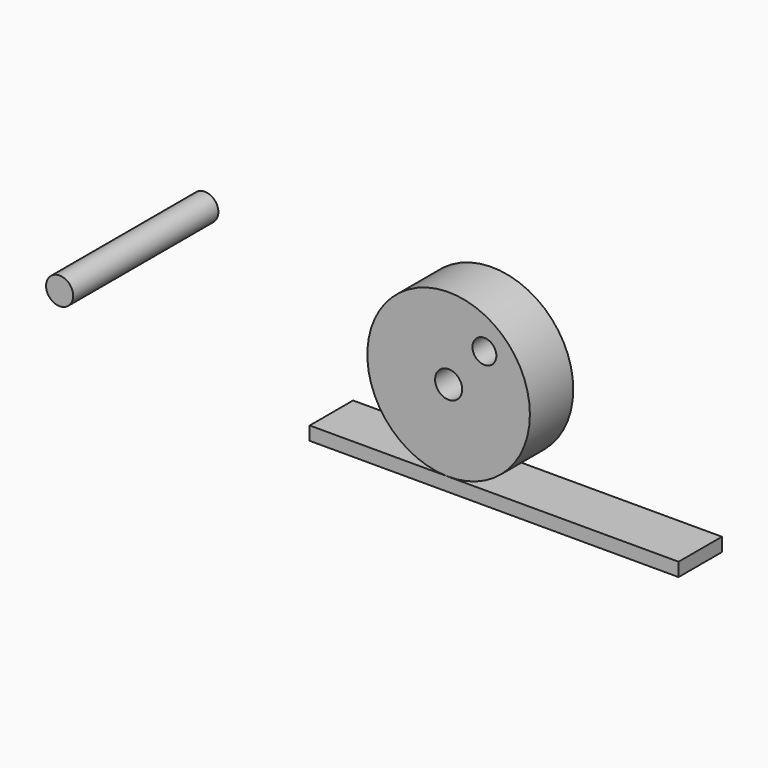
from build123d import *

# Parameters (mm, degrees)
F0_R     = 38.1
F0_R_2   = 6.35
F1_DEPTH = 25.4
F2_W     = 172.908775
F2_H     = 6.35
F3_DEPTH = 25.4
F4_R     = 6.35
F5_DEPTH = 85.09
F6_R     = 5.603489
F7_DEPTH = 25.4


with BuildPart() as f1:
    # F0 (on Front) → F1 (new body)
    with BuildSketch(Plane.XZ):
        Circle(F0_R)
        Circle(F0_R_2, mode=Mode.SUBTRACT)
    extrude(amount=F1_DEPTH)

    # F6 (on face) → F7 (cut)
    with BuildSketch(Plane.XZ.offset(25.4)):
        with Locations((16.770264, 19.109719)):
            Circle(F6_R)
    extrude(amount=-F7_DEPTH, mode=Mode.SUBTRACT)


with BuildPart() as f3:
    # F2 (on Front) → F3 (new body)
    with BuildSketch(Plane.XZ):
        with Locations((21.342945, -41.275)):
            Rectangle(F2_W, F2_H)
    extrude(amount=F3_DEPTH)


with BuildPart() as f5:
    # F4 (on Front) → F5 (new body)
    with BuildSketch(Plane.XZ):
        with Locations((-134.618536, 19.113777)):
            Circle(F4_R)
    extrude(amount=F5_DEPTH)


solid = Compound([f1.part, f3.part, f5.part])
